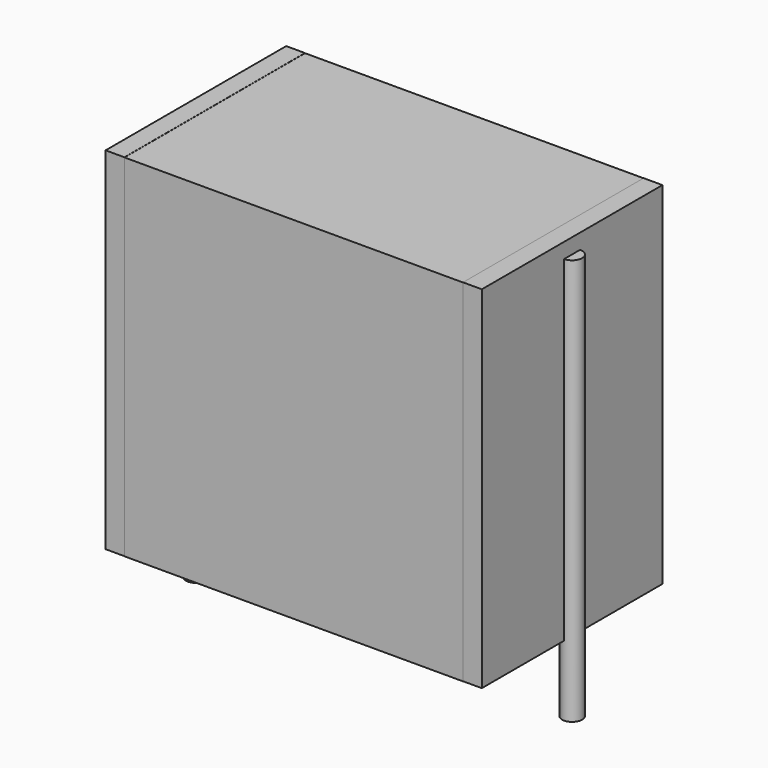
from build123d import *

# Parameters (mm, degrees)
SKETCH_W          = 13.5
SKETCH_H          = 9
PAD_DEPTH         = 14
SKETCH001_R       = 0.4
PAD001_DEPTH      = 13
PAD001_DEPTH_BACK = 3.2
SKETCH002_W       = 0.75
SKETCH002_H       = 9
PAD002_DEPTH      = 14


with BuildPart() as pad:
    # Sketch → Pad (new body)
    with BuildSketch(Plane.XY.offset(0.1)):
        with Locations((7.5, 0)):
            Rectangle(SKETCH_W, SKETCH_H)
    extrude(amount=PAD_DEPTH)


with BuildPart() as pad001:
    # Sketch001 → Pad001 (new body, two sides)
    with BuildSketch(Plane.XY.offset(0.5)) as pad001_sk:
        Circle(SKETCH001_R)
        with Locations((15, 0)):
            Circle(SKETCH001_R)
    extrude(amount=PAD001_DEPTH)
    extrude(pad001_sk.sketch, amount=-PAD001_DEPTH_BACK)


with BuildPart() as pad002:
    # Sketch002 → Pad002 (new body)
    with BuildSketch(Plane.XY.offset(0.105)):
        with Locations((0.375, 0)):
            Rectangle(SKETCH002_W, SKETCH002_H)
        with Locations((14.625, 0)):
            Rectangle(SKETCH002_W, SKETCH002_H)
    extrude(amount=PAD002_DEPTH)


solid = Compound([pad.part, pad001.part, pad002.part])
